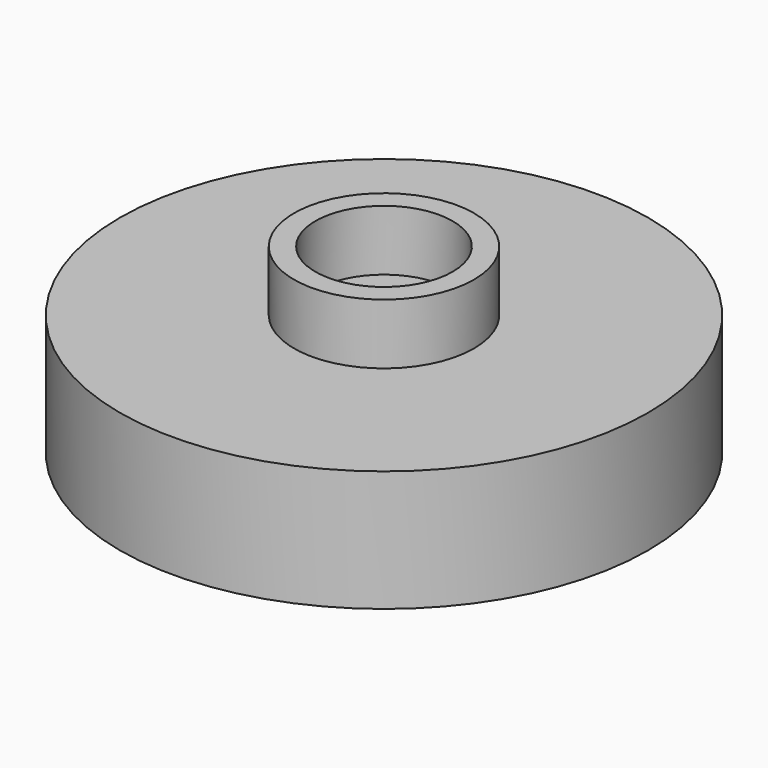
from build123d import *

# Parameters (mm, degrees)
F3_R      = 6.60593
F3_R_2    = 5.037678
F0_DEPTH  = 8.89
F4_R      = 11.149828
F5_DEPTH  = 2.54
F1_R      = 19.383662
F2_DEPTH  = 4.445
F2_FACE_R = 19.383662
F6_DEPTH  = 4.445


with BuildPart() as f0:
    # F3 (on Top) → F0 (new body)
    with BuildSketch(Plane.XY):
        Circle(F3_R)
        Circle(F3_R_2, mode=Mode.SUBTRACT)
    extrude(amount=F0_DEPTH)

    # F4 (on Top) → F5 (join)
    with BuildSketch(Plane.XY):
        Circle(F4_R)
    extrude(amount=F5_DEPTH)

    # F1 (on Top) → F2 (join)
    with BuildSketch(Plane.XY):
        Circle(F1_R)
    extrude(amount=F2_DEPTH)

    # F2_face (on face) → F6 (join)
    with BuildSketch(Plane(origin=(0, 0, 0), x_dir=(1, 0, 0), z_dir=(0, 0, -1))):
        Circle(F2_FACE_R)
    extrude(amount=F6_DEPTH)


solid = f0.part
